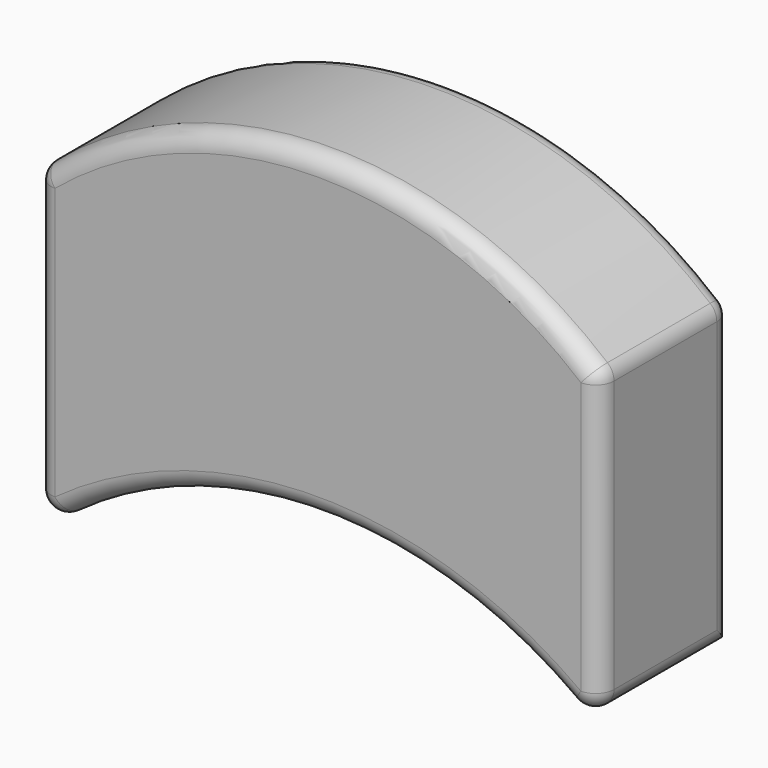
from build123d import *

# Parameters (mm, degrees)
F1_DEPTH = 685.8
F2_R     = 76.2


with BuildPart() as f1:
    # F0 (on Front) → F1 (new body)
    with BuildSketch(Plane.XZ):
        with BuildLine():
            ThreePointArc((-1168.4, 0), (0, 437.803955), (1168.4, 0))
            Line((1168.4, 0), (1168.4, 1320.8))
            ThreePointArc((1168.4, 1320.8), (0, 1758.603955), (-1168.4, 1320.8))
            Line((-1168.4, 1320.8), (-1168.4, 0))
        make_face()
    extrude(amount=F1_DEPTH)

    # F2
    f2_edges = [f1.edges().sort_by_distance(p)[0] for p in [
        (0, -685.8, 1758.603955),
        (-1168.4, -685.8, 660.4),
        (0, -685.8, 437.803955),
        (1168.4, -685.8, 660.4),
        (1168.4, -342.9, 1320.8),
        (-1168.4, -342.9, 1320.8),
        (0, 0, 1758.603955),
        (1168.4, -342.9, 0),
        (1168.4, 0, 660.4),
        (-1168.4, -342.9, 0),
        (-1168.4, 0, 660.4),
    ]]
    fillet(f2_edges, radius=F2_R)


solid = f1.part
